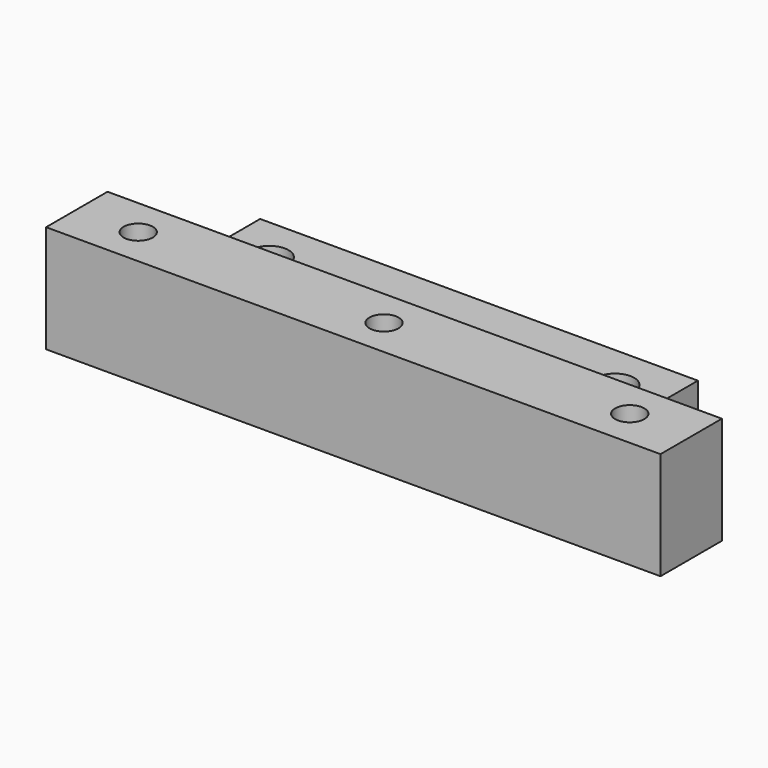
from build123d import *

# Parameters (mm, degrees)
F0_W     = 40
F0_H     = 5
F0_R     = 0.95
F1_DEPTH = 7
F2_W     = 28.5
F2_H     = 6
F2_R     = 1.25
F3_DEPTH = 3


with BuildPart() as f1:
    # F0 (on Top) → F1 (new body)
    with BuildSketch(Plane.XY):
        Rectangle(F0_W, F0_H)
        with Locations((-16, 0)):
            Circle(F0_R, mode=Mode.SUBTRACT)
        Circle(F0_R, mode=Mode.SUBTRACT)
        with Locations((16, 0)):
            Circle(F0_R, mode=Mode.SUBTRACT)
    extrude(amount=F1_DEPTH)


with BuildPart() as f3:
    # F2 (on Top) → F3 (new body)
    with BuildSketch(Plane.XY):
        with Locations((-2.620294, 8.008368)):
            Rectangle(F2_W, F2_H)
        with Locations((-13.870294, 8.008368)):
            Circle(F2_R, mode=Mode.SUBTRACT)
        with Locations((8.629706, 8.008368)):
            Circle(F2_R, mode=Mode.SUBTRACT)
    extrude(amount=F3_DEPTH)


solid = Compound([f1.part, f3.part])
